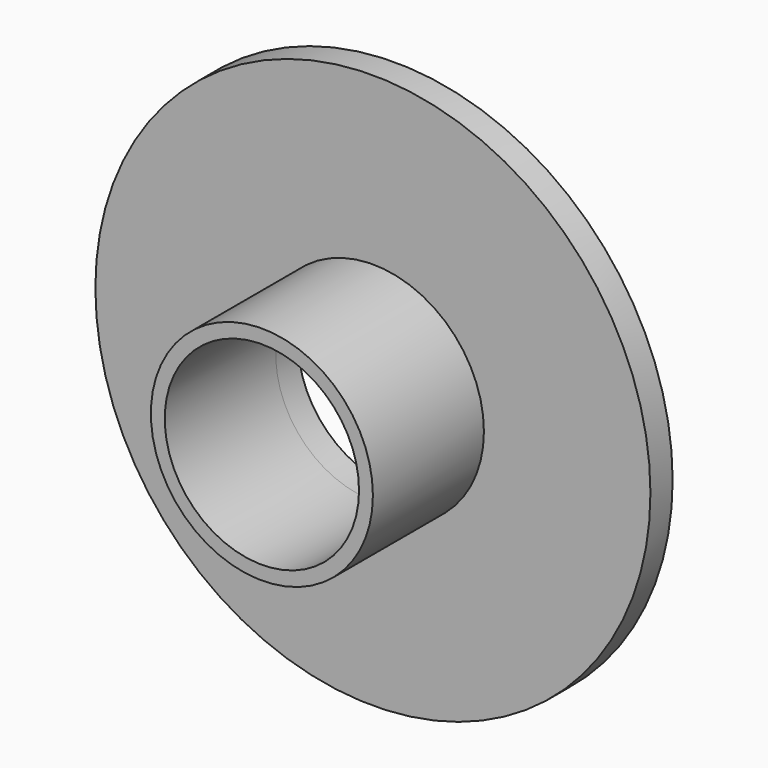
from build123d import *

# Parameters (mm, degrees)
F0_R        = 20
F0_R_2      = 17.5
F1_DEPTH    = 25
F0_R_3      = 50
F2_DEPTH    = 5
F1_FACE_R   = 20
F1_FACE_R_2 = 17.5
F3_DEPTH    = 5


with BuildPart() as f1:
    # F0 (on Front) → F1 (new body)
    with BuildSketch(Plane.XZ):
        with Locations((0, 92.212098)):
            Circle(F0_R)
        with Locations((0, 92.212098)):
            Circle(F0_R_2, mode=Mode.SUBTRACT)
    extrude(amount=F1_DEPTH)


with BuildPart() as f2:
    # F0 (on Front) → F2 (new body)
    with BuildSketch(Plane.XZ):
        with Locations((0, 92.212098)):
            Circle(F0_R_3)
        with Locations((0, 92.212098)):
            Circle(F0_R, mode=Mode.SUBTRACT)
    extrude(amount=-F2_DEPTH)


with BuildPart() as f3:
    # F1_face (on face) → F3 (new body)
    with BuildSketch(Plane(origin=(0, 0, 92.212098), x_dir=(1, 0, 0), z_dir=(0, 1, 0))):
        Circle(F1_FACE_R)
        Circle(F1_FACE_R_2, mode=Mode.SUBTRACT)
    extrude(amount=F3_DEPTH)


solid = Compound([f1.part, f2.part, f3.part])
